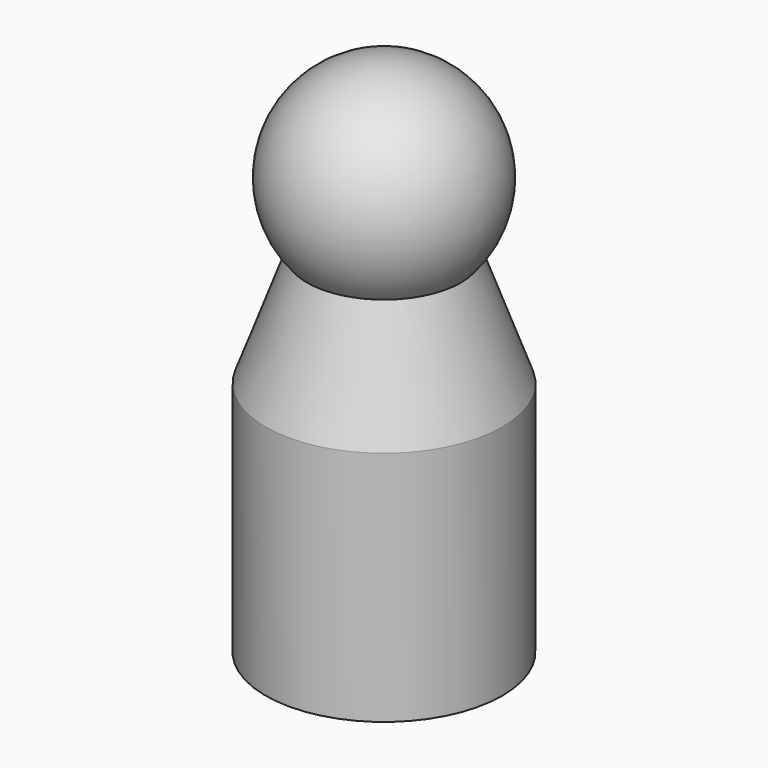
from build123d import *

# Parameters (mm, degrees)
F0_R      = 7.5
F1_DEPTH  = 15
F1_FACE_R = 7.5
F2_DEPTH  = 10
F2_TAPER  = 20


with BuildPart() as f1:
    # F0 (on Top) → F1 (new body)
    with BuildSketch(Plane.XY):
        Circle(F0_R)
    extrude(amount=F1_DEPTH)

    # F1_face (on face) → F2 (join)
    with BuildSketch(Plane.XY.offset(15)):
        Circle(F1_FACE_R)
    extrude(amount=F2_DEPTH, taper=F2_TAPER)

    # F3 (on Front) → F4 (revolve)
    with BuildSketch(Plane.XZ):
        with BuildLine():
            Line((0, 33), (0, 20))
            ThreePointArc((0, 20), (6.5, 26.5), (0, 33))
        make_face()
    revolve(axis=Axis((0, 0, 26.5), (0, 0, 1)))


solid = f1.part
